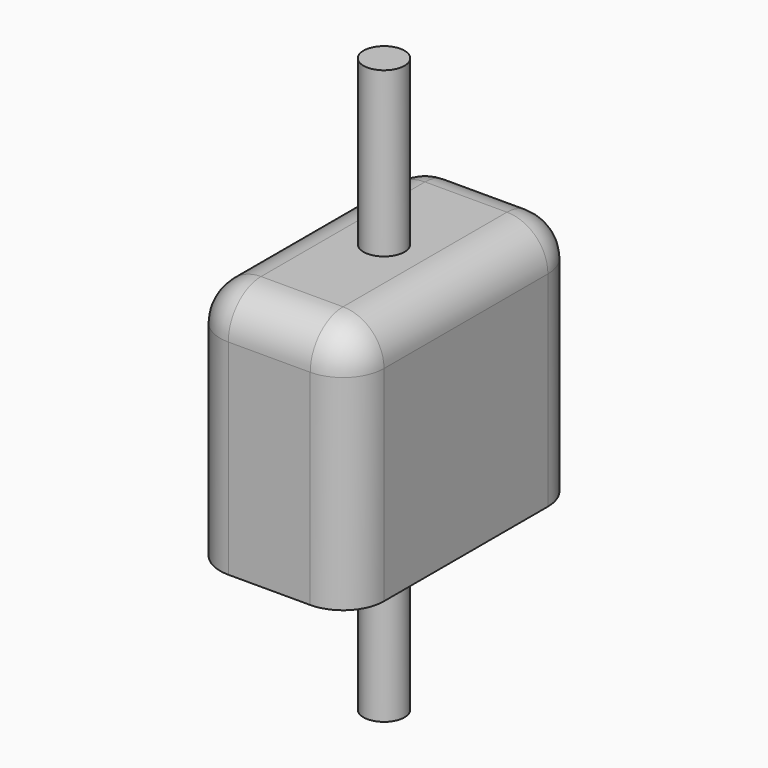
from build123d import *

# Parameters (mm, degrees)
F0_W     = 20
F0_H     = 35
F1_DEPTH = 30
F2_R     = 2.5
F3_DEPTH = 20
F4_R     = 5
F5_R     = 2.5
F6_DEPTH = 20


with BuildPart() as f1:
    # F0 (on Top) → F1 (new body)
    with BuildSketch(Plane.XY):
        Rectangle(F0_W, F0_H)
    extrude(amount=F1_DEPTH)

    # F2 (on face) → F3 (join)
    with BuildSketch(Plane.XY.offset(30)):
        Circle(F2_R)
    extrude(amount=F3_DEPTH)

    # F4
    f4_edges = [f1.edges().sort_by_distance(p)[0] for p in [
        (0, -17.5, 30),
        (10, -17.5, 15),
        (-10, -17.5, 15),
        (-10, 0, 30),
        (0, 17.5, 30),
        (10, 0, 30),
        (10, 17.5, 15),
        (-10, 17.5, 15),
    ]]
    fillet(f4_edges, radius=F4_R)

    # F5 (on face) → F6 (join)
    with BuildSketch(Plane(origin=(0, 0, 0), x_dir=(1, 0, 0), z_dir=(0, 0, -1))):
        Circle(F5_R)
    extrude(amount=F6_DEPTH)


solid = f1.part
